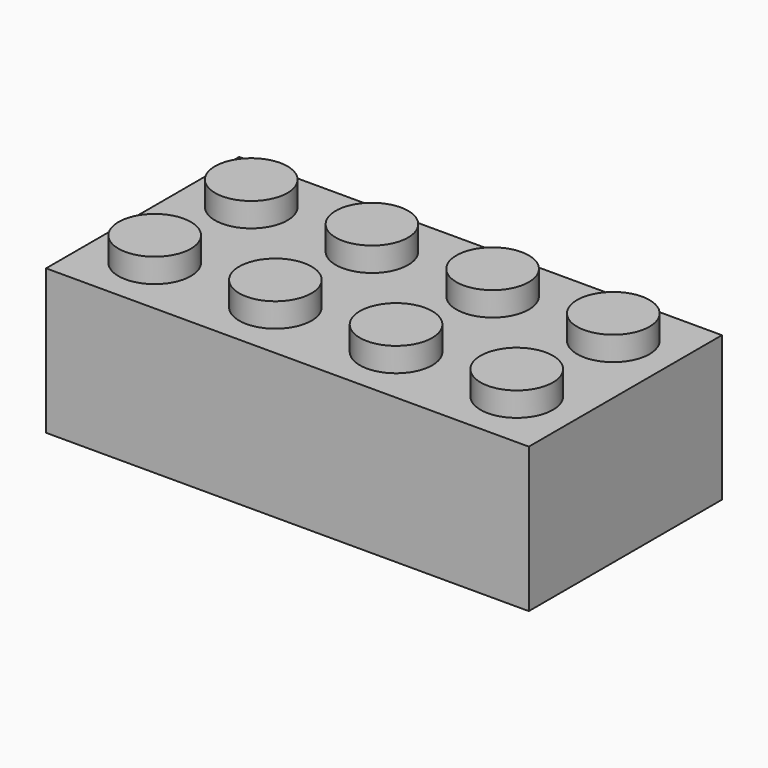
from build123d import *

# Parameters (mm, degrees)
F0_W     = 32
F0_H     = 16
F1_DEPTH = 9.6
F2_W     = 28.8
F2_H     = 12.8
F3_DEPTH = 8
F4_R     = 2.4
F5_DEPTH = 1.6


with BuildPart() as f1:
    # F0 (on Top) → F1 (new body)
    with BuildSketch(Plane.XY):
        Rectangle(F0_W, F0_H)
    extrude(amount=F1_DEPTH)

    # F2 (on face) → F3 (cut)
    with BuildSketch(Plane(origin=(0, 0, 0), x_dir=(1, 0, 0), z_dir=(0, 0, -1))):
        Rectangle(F2_W, F2_H)
    extrude(amount=-F3_DEPTH, mode=Mode.SUBTRACT)

    # F4 (on face) → F5 (join)
    with BuildSketch(Plane.XY.offset(9.6)):
        with Locations((-12, 4)):
            Circle(F4_R)
        with Locations((-4, 4)):
            Circle(F4_R)
        with Locations((4, 4)):
            Circle(F4_R)
        with Locations((12, 4)):
            Circle(F4_R)
        with Locations((-12, -4)):
            Circle(F4_R)
        with Locations((-4, -4)):
            Circle(F4_R)
        with Locations((4, -4)):
            Circle(F4_R)
        with Locations((12, -4)):
            Circle(F4_R)
    extrude(amount=F5_DEPTH)


solid = f1.part
